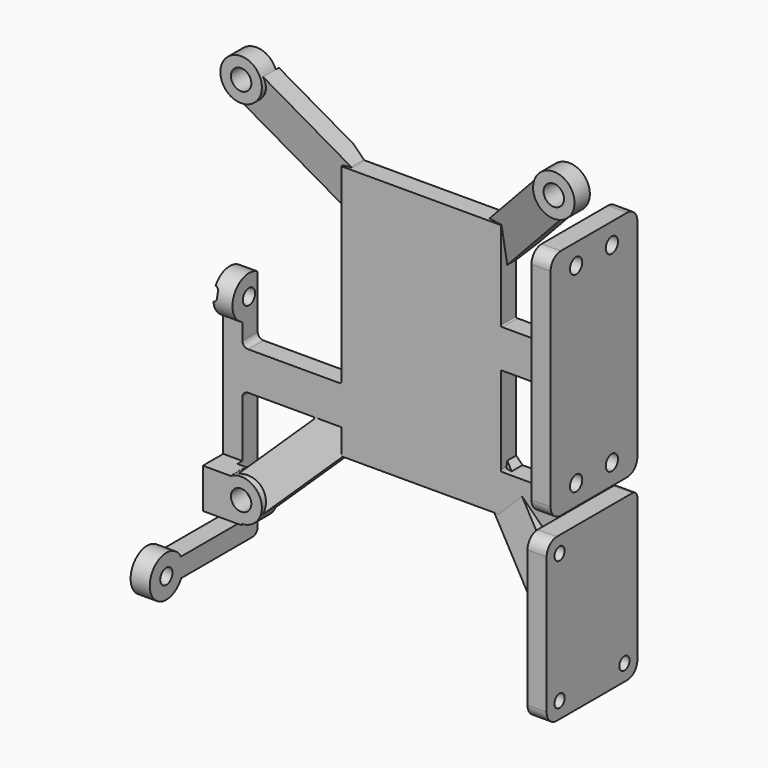
from build123d import *

# Parameters (mm, degrees)
BOX_W                     = 78
BOX_H                     = 10
BOX_DEPTH                 = 77
CYLINDER026_R             = 3.25
CYLINDER026_DEPTH         = 3
CYLINDER025_R             = 3.25
CYLINDER025_DEPTH         = 3
CYLINDER024_R             = 3.25
CYLINDER024_DEPTH         = 3
CYLINDER023_R             = 3.25
CYLINDER023_DEPTH         = 7
BOX014_W                  = 46
BOX014_H                  = 3
BOX014_DEPTH              = 47
CYLINDER027_R             = 1.2
CYLINDER027_DEPTH         = 6
CYLINDER028_R             = 1.2
CYLINDER028_DEPTH         = 6
CYLINDER029_R             = 1.1
CYLINDER029_DEPTH         = 6
FILLET009_R               = 0.5
CYLINDER022_R             = 1.6
CYLINDER022_DEPTH         = 6
CYLINDER021_R             = 1.6
CYLINDER021_DEPTH         = 6
CYLINDER020_R             = 1.6
CYLINDER020_DEPTH         = 6
CYLINDER019_R             = 1.6
CYLINDER019_DEPTH         = 6
BOX008_W                  = 30
BOX008_H                  = 3
BOX008_DEPTH              = 6
BOX009_W                  = 30
BOX009_H                  = 3
BOX009_DEPTH              = 6
BOX010_W                  = 27
BOX010_H                  = 3
BOX010_DEPTH              = 6
BOX011_W                  = 8
BOX011_H                  = 3
BOX011_DEPTH              = 6.25
BOX012_W                  = 3
BOX012_H                  = 3
BOX012_DEPTH              = 6.25
BOX013_W                  = 6
BOX013_H                  = 3
BOX013_DEPTH              = 6.25
BOX001_W                  = 25
BOX001_H                  = 3
BOX001_DEPTH              = 40
BOX002_W                  = 5.8
BOX002_H                  = 3
BOX002_DEPTH              = 25
BOX002_ROLL_ANGLE         = -15
BOX002_PITCH_ANGLE        = 45
CYLINDER017_R             = 3.25
CYLINDER017_DEPTH         = 3
CYLINDER018_R             = 3.25
CYLINDER018_DEPTH         = 3
CYLINDER003_R             = 3.25
CYLINDER003_DEPTH         = 3
CYLINDER002_R             = 3.25
CYLINDER002_DEPTH         = 3
CYLINDER001_R             = 3.25
CYLINDER001_DEPTH         = 3
CYLINDER_R                = 3.25
CYLINDER_DEPTH            = 3
CYLINDER015_R             = 1.2
CYLINDER015_DEPTH         = 10
CYLINDER016_R             = 1.2
CYLINDER016_DEPTH         = 10
CYLINDER012_R             = 1.2
CYLINDER012_DEPTH         = 10
CYLINDER014_R             = 1.2
CYLINDER014_DEPTH         = 10
BOX007_W                  = 36.5
BOX007_H                  = 3
BOX007_DEPTH              = 17
FILLET008_R               = 2
FILLET008_PITCH_ANGLE     = -90
FILLET008_PLACEMENT_ANGLE = -90
BOX006_W                  = 3
BOX006_H                  = 19
BOX006_DEPTH              = 35
BOX005_W                  = 3
BOX005_H                  = 19
BOX005_DEPTH              = 35
CYLINDER008_R             = 1
CYLINDER008_DEPTH         = 10
CYLINDER009_R             = 1
CYLINDER009_DEPTH         = 10
CYLINDER010_R             = 1
CYLINDER010_DEPTH         = 10
CYLINDER011_R             = 1
CYLINDER011_DEPTH         = 10
BOX004_W                  = 25.4
BOX004_H                  = 3
BOX004_DEPTH              = 17.78
CUT001_PITCH_ANGLE        = 90
CUT001_PLACEMENT_ANGLE    = 90
FILLET010_R               = 2
FILLET011_R               = 0.9
FILLET012_R               = 0.2
FILLET013_R               = 1
FILLET014_1_R             = 2
FILLET014_2_R             = 1


with BuildPart() as cube:
    # Box → Box (new body)
    with BuildSketch(Plane.XY):
        with Locations((39, 5)):
            Rectangle(BOX_W, BOX_H)
    extrude(amount=BOX_DEPTH)


with BuildPart() as cylinder026:
    # Cylinder026 → Cylinder026 (new body)
    with BuildSketch(Plane(origin=(63.5, -7, 3.5), x_dir=(1, 0, 0), z_dir=(0, 1, 0))):
        Circle(CYLINDER026_R)
    extrude(amount=CYLINDER026_DEPTH)


with BuildPart() as fusion030:
    # Cylinder025 → Cylinder025 (new body)
    with BuildSketch(Plane(origin=(14.5, -7, 3.5), x_dir=(1, 0, 0), z_dir=(0, 1, 0))):
        Circle(CYLINDER025_R)
    extrude(amount=CYLINDER025_DEPTH)

    # Fusion030: union Cylinder026
    add(cylinder026.part)


with BuildPart() as fusion030_1:
    # Fusion030 placement: moved
    add(fusion030.part.moved(Location((0, 0, 58))))


with BuildPart() as cylinder024:
    # Cylinder024 → Cylinder024 (new body)
    with BuildSketch(Plane(origin=(63.5, -7, 3.5), x_dir=(1, 0, 0), z_dir=(0, 1, 0))):
        Circle(CYLINDER024_R)
    extrude(amount=CYLINDER024_DEPTH)


with BuildPart() as m3cuts001:
    # Cylinder023 → Cylinder023 (new body)
    with BuildSketch(Plane(origin=(14.5, -7, 3.5), x_dir=(1, 0, 0), z_dir=(0, 1, 0))):
        Circle(CYLINDER023_R)
    extrude(amount=CYLINDER023_DEPTH)

    # Fusion031: union Cylinder024
    add(cylinder024.part)

    # Fusion032: union Fusion030
    add(fusion030_1.part)


with BuildPart() as m3cuts001_1:
    # Fusion032 placement: moved
    add(m3cuts001.part.moved(Location((0, 3.05, 0))))


with BuildPart() as basecut:
    # Box014 → Box014 (new body)
    with BuildSketch(Plane(origin=(16, 0, 9), x_dir=(1, 0, 0), z_dir=(0, 0, 1))):
        with Locations((23, 1.5)):
            Rectangle(BOX014_W, BOX014_H)
    extrude(amount=BOX014_DEPTH)


with BuildPart() as cylinder027:
    # Cylinder027 → Cylinder027 (new body)
    with BuildSketch(Plane(origin=(11.5, -1.7, 28.45), x_dir=(0, 1, 0), z_dir=(-1, 0, 0))):
        Circle(CYLINDER027_R)
    extrude(amount=CYLINDER027_DEPTH)


with BuildPart() as obj1:
    # Cylinder028 → Cylinder028 (new body)
    with BuildSketch(Plane(origin=(11.5, -17.9, -3.55), x_dir=(0, 1, 0), z_dir=(-1, 0, 0))):
        Circle(CYLINDER028_R)
    extrude(amount=CYLINDER028_DEPTH)

    # Fusion033: union Cylinder027
    add(cylinder027.part)


with BuildPart() as obj2:
    # Cylinder029 → Cylinder029 (new body)
    with BuildSketch(Plane(origin=(9.09, -4.25, 29), x_dir=(0, 1, 0), z_dir=(-1, 0, 0))):
        Circle(CYLINDER029_R)
    extrude(amount=CYLINDER029_DEPTH)

    # Fillet009
    fillet009_edges = [obj2.edges().sort_by_distance(p)[0] for p in [
        (9.09, -5.35, 29),
    ]]
    fillet(fillet009_edges, radius=FILLET009_R)


with BuildPart() as cylinder022:
    # Cylinder022 → Cylinder022 (new body)
    with BuildSketch(Plane(origin=(63.5, -7, 3.5), x_dir=(1, 0, 0), z_dir=(0, 1, 0))):
        Circle(CYLINDER022_R)
    extrude(amount=CYLINDER022_DEPTH)


with BuildPart() as fusion027:
    # Cylinder021 → Cylinder021 (new body)
    with BuildSketch(Plane(origin=(14.5, -7, 3.5), x_dir=(1, 0, 0), z_dir=(0, 1, 0))):
        Circle(CYLINDER021_R)
    extrude(amount=CYLINDER021_DEPTH)

    # Fusion027: union Cylinder022
    add(cylinder022.part)


with BuildPart() as fusion027_1:
    # Fusion027 placement: moved
    add(fusion027.part.moved(Location((0, 0, 58))))


with BuildPart() as cylinder020:
    # Cylinder020 → Cylinder020 (new body)
    with BuildSketch(Plane(origin=(63.5, -7, 3.5), x_dir=(1, 0, 0), z_dir=(0, 1, 0))):
        Circle(CYLINDER020_R)
    extrude(amount=CYLINDER020_DEPTH)


with BuildPart() as basecuts:
    # Cylinder019 → Cylinder019 (new body)
    with BuildSketch(Plane(origin=(14.5, -7, 3.5), x_dir=(1, 0, 0), z_dir=(0, 1, 0))):
        Circle(CYLINDER019_R)
    extrude(amount=CYLINDER019_DEPTH)

    # Fusion028: union Cylinder020
    add(cylinder020.part)

    # Fusion029: union Fusion027
    add(fusion027_1.part)

    # Fusion034: union m3Cuts001, baseCut, obj1, obj2
    add(m3cuts001_1.part)
    add(basecut.part)
    add(obj1.part)
    add(obj2.part)


with BuildPart() as cube008:
    # Box008 → Box008 (new body)
    with BuildSketch(Plane(origin=(11, -3, 16), x_dir=(1, 0, 0), z_dir=(0, 0, 1))):
        with Locations((15, 1.5)):
            Rectangle(BOX008_W, BOX008_H)
    extrude(amount=BOX008_DEPTH)


with BuildPart() as cube009:
    # Box009 → Box009 (new body)
    with BuildSketch(Plane(origin=(41, -3, 32), x_dir=(1, 0, 0), z_dir=(0, 0, 1))):
        with Locations((15, 1.5)):
            Rectangle(BOX009_W, BOX009_H)
    extrude(amount=BOX009_DEPTH)


with BuildPart() as cube010:
    # Box010 → Box010 (new body)
    with BuildSketch(Plane(origin=(44, -3, 12), x_dir=(1, 0, 0), z_dir=(0, 0, 1))):
        with Locations((13.5, 1.5)):
            Rectangle(BOX010_W, BOX010_H)
    extrude(amount=BOX010_DEPTH)


with BuildPart() as cube011:
    # Box011 → Box011 (new body)
    with BuildSketch(Plane(origin=(63, -7, 0.3), x_dir=(1, 0, 0), z_dir=(0, 0, 1))):
        with Locations((4, 1.5)):
            Rectangle(BOX011_W, BOX011_H)
    extrude(amount=BOX011_DEPTH)


with BuildPart() as cube012:
    # Box012 → Box012 (new body)
    with BuildSketch(Plane(origin=(11.5, -4, 6.3), x_dir=(-1, 0, 0), z_dir=(0, 0, -1))):
        with Locations((1.5, 1.5)):
            Rectangle(BOX012_W, BOX012_H)
    extrude(amount=BOX012_DEPTH)


with BuildPart() as obj3:
    # Box013 → Box013 (new body)
    with BuildSketch(Plane(origin=(14.5, -7, 6.3), x_dir=(-1, 0, 0), z_dir=(0, 0, -1))):
        with Locations((3, 1.5)):
            Rectangle(BOX013_W, BOX013_H)
    extrude(amount=BOX013_DEPTH)

    # Fusion025: union Cube008, Cube009, Cube010, Cube011, Cube012
    add(cube008.part)
    add(cube009.part)
    add(cube010.part)
    add(cube011.part)
    add(cube012.part)


with BuildPart() as cube001:
    # Box001 → Box001 (new body)
    with BuildSketch(Plane(origin=(27, -3, 12), x_dir=(1, 0, 0), z_dir=(0, 0, 1))):
        with Locations((12.5, 1.5)):
            Rectangle(BOX001_W, BOX001_H)
    extrude(amount=BOX001_DEPTH)


with BuildPart() as cube002:
    # Box002 → Box002 (new body)
    with BuildSketch(Plane.XY):
        with Locations((2.9, 1.5)):
            Rectangle(BOX002_W, BOX002_H)
    extrude(amount=BOX002_DEPTH)


with BuildPart() as cube002_1:
    # Box002 roll: moved
    add(cube002.part.rotate(Axis((0, 0, 0), (1, 0, 0)), BOX002_ROLL_ANGLE))


with BuildPart() as cube002_2:
    # Box002 pitch: moved
    add(cube002_1.part.rotate(Axis((0, 0, 0), (0, 1, 0)), BOX002_PITCH_ANGLE))


with BuildPart() as cube002_3:
    # Box002 placement: moved
    add(cube002_2.part.moved(Location((12.12, -7, 5.12))))


with BuildPart() as fusion009:
    # Part__Mirroring: instance of Cube002
    add(cube002_3.part.mirror(Plane(origin=(0, 0, 0), x_dir=(0, 1, 0), z_dir=(0, 0, 1))))


with BuildPart() as fusion009_1:
    # Part__Mirroring placement: moved
    add(fusion009.part.moved(Location((0, 0, 65))))

    # Fusion009: union Cube002
    add(cube002_3.part)


with BuildPart() as part_mirroring001:
    # Part__Mirroring001: instance of Fusion009
    add(fusion009_1.part.mirror(Plane(origin=(0, 0, 0), x_dir=(0, -1, 0), z_dir=(1, 0, 0))))


with BuildPart() as part_mirroring001_1:
    # Part__Mirroring001 placement: moved
    add(part_mirroring001.part.moved(Location((78, 0, 0))))


with BuildPart() as base:
    # Fusion010 base: copy of Fusion009
    add(fusion009_1.part)

    # Fusion010: union Part__Mirroring001
    add(part_mirroring001_1.part)

    # Fusion023: union Cube001
    add(cube001.part)


with BuildPart() as cylinder017:
    # Cylinder017 → Cylinder017 (new body)
    with BuildSketch(Plane(origin=(11.5, -1.7, 28.45), x_dir=(0, 1, 0), z_dir=(-1, 0, 0))):
        Circle(CYLINDER017_R)
    extrude(amount=CYLINDER017_DEPTH)


with BuildPart() as obj4:
    # Cylinder018 → Cylinder018 (new body)
    with BuildSketch(Plane(origin=(11.5, -17.9, -3.55), x_dir=(0, 1, 0), z_dir=(-1, 0, 0))):
        Circle(CYLINDER018_R)
    extrude(amount=CYLINDER018_DEPTH)

    # Fusion022: union Cylinder017
    add(cylinder017.part)


with BuildPart() as cylinder003:
    # Cylinder003 → Cylinder003 (new body)
    with BuildSketch(Plane(origin=(63.5, -7, 3.5), x_dir=(1, 0, 0), z_dir=(0, 1, 0))):
        Circle(CYLINDER003_R)
    extrude(amount=CYLINDER003_DEPTH)


with BuildPart() as fusion007:
    # Cylinder002 → Cylinder002 (new body)
    with BuildSketch(Plane(origin=(14.5, -7, 3.5), x_dir=(1, 0, 0), z_dir=(0, 1, 0))):
        Circle(CYLINDER002_R)
    extrude(amount=CYLINDER002_DEPTH)

    # Fusion007: union Cylinder003
    add(cylinder003.part)


with BuildPart() as fusion007_1:
    # Fusion007 placement: moved
    add(fusion007.part.moved(Location((0, 0, 58))))


with BuildPart() as cylinder001:
    # Cylinder001 → Cylinder001 (new body)
    with BuildSketch(Plane(origin=(63.5, -7, 3.5), x_dir=(1, 0, 0), z_dir=(0, 1, 0))):
        Circle(CYLINDER001_R)
    extrude(amount=CYLINDER001_DEPTH)


with BuildPart() as m3legs:
    # Cylinder → Cylinder (new body)
    with BuildSketch(Plane(origin=(14.5, -7, 3.5), x_dir=(1, 0, 0), z_dir=(0, 1, 0))):
        Circle(CYLINDER_R)
    extrude(amount=CYLINDER_DEPTH)

    # Fusion020: union Cylinder001
    add(cylinder001.part)

    # Fusion021: union Fusion007
    add(fusion007_1.part)


with BuildPart() as m2s002:
    # Cylinder015 → Cylinder015 (new body)
    with BuildSketch(Plane.XZ):
        Circle(CYLINDER015_R)
    extrude(amount=CYLINDER015_DEPTH)


with BuildPart() as fusion018:
    # Cylinder016 → Cylinder016 (new body)
    with BuildSketch(Plane(origin=(30, 0, 0), x_dir=(1, 0, 0), z_dir=(0, -1, 0))):
        Circle(CYLINDER016_R)
    extrude(amount=CYLINDER016_DEPTH)

    # Fusion018: union m2s002
    add(m2s002.part)


with BuildPart() as fusion018_1:
    # Fusion018 placement: moved
    add(fusion018.part.moved(Location((3.25, 0, 7))))


with BuildPart() as m2s:
    # Cylinder012 → Cylinder012 (new body)
    with BuildSketch(Plane.XZ):
        Circle(CYLINDER012_R)
    extrude(amount=CYLINDER012_DEPTH)


with BuildPart() as fusion019:
    # Cylinder014 → Cylinder014 (new body)
    with BuildSketch(Plane(origin=(30, 0, 0), x_dir=(1, 0, 0), z_dir=(0, -1, 0))):
        Circle(CYLINDER014_R)
    extrude(amount=CYLINDER014_DEPTH)

    # Fusion017: union m2s
    add(m2s.part)


with BuildPart() as fusion019_1:
    # Fusion017 placement: moved
    add(fusion019.part.moved(Location((3.25, 0, 0))))

    # Fusion019: union Fusion018
    add(fusion018_1.part)


with BuildPart() as fusion019_2:
    # Fusion019 placement: moved
    add(fusion019_1.part.moved(Location((0, 3, 5))))


with BuildPart() as convertersupport:
    # Box007 → Box007 (new body)
    with BuildSketch(Plane.XY):
        with Locations((18.25, 1.5)):
            Rectangle(BOX007_W, BOX007_H)
    extrude(amount=BOX007_DEPTH)

    # Cut003: cut Fusion019
    add(fusion019_2.part, mode=Mode.SUBTRACT)

    # Fillet008
    fillet008_edges = [convertersupport.edges().sort_by_distance(p)[0] for p in [
        (0, 1.5, 17),
        (0, 1.5, 0),
        (36.5, 1.5, 17),
        (36.5, 1.5, 0),
    ]]
    fillet(fillet008_edges, radius=FILLET008_R)


with BuildPart() as convertersupport_1:
    # Fillet008 pitch: moved
    add(convertersupport.part.rotate(Axis((0, 0, 0), (0, 1, 0)), FILLET008_PITCH_ANGLE))


with BuildPart() as convertersupport_2:
    # Fillet008 placement: moved
    add(convertersupport_1.part.moved(Location((68, -17, 23))).rotate(Axis((68, -17, 23), (0, 0, 1)), FILLET008_PLACEMENT_ANGLE))


with BuildPart() as cube006:
    # Box006 → Box006 (new body)
    with BuildSketch(Plane(origin=(8, -22, -2), x_dir=(1, 0, 0), z_dir=(0, 0, 1))):
        with Locations((1.5, 9.5)):
            Rectangle(BOX006_W, BOX006_H)
    extrude(amount=BOX006_DEPTH)


with BuildPart() as cut002:
    # Box005 → Box005 (new body)
    with BuildSketch(Plane(origin=(8, -19, -5), x_dir=(1, 0, 0), z_dir=(0, 0, 1))):
        with Locations((1.5, 9.5)):
            Rectangle(BOX005_W, BOX005_H)
    extrude(amount=BOX005_DEPTH)

    # Cut002: cut Cube006
    add(cube006.part, mode=Mode.SUBTRACT)


with BuildPart() as cut002_1:
    # Cut002 placement: moved
    add(cut002.part.moved(Location((0.5, 0, 0))))


with BuildPart() as cylinder008:
    # Cylinder008 → Cylinder008 (new body)
    with BuildSketch(Plane(origin=(2.54, 0, 2.54), x_dir=(1, 0, 0), z_dir=(0, -1, 0))):
        Circle(CYLINDER008_R)
    extrude(amount=CYLINDER008_DEPTH)


with BuildPart() as fusion014:
    # Cylinder009 → Cylinder009 (new body)
    with BuildSketch(Plane(origin=(2.54, -27.63, 15.24), x_dir=(1, 0, 0), z_dir=(0, -1, 0))):
        Circle(CYLINDER009_R)
    extrude(amount=CYLINDER009_DEPTH)

    # Fusion014: union Cylinder008
    add(cylinder008.part)


with BuildPart() as cylinder010:
    # Cylinder010 → Cylinder010 (new body)
    with BuildSketch(Plane(origin=(2.54, 0, 2.54), x_dir=(1, 0, 0), z_dir=(0, -1, 0))):
        Circle(CYLINDER010_R)
    extrude(amount=CYLINDER010_DEPTH)


with BuildPart() as fusion016:
    # Cylinder011 → Cylinder011 (new body)
    with BuildSketch(Plane(origin=(2.54, 0, 15.24), x_dir=(1, 0, 0), z_dir=(0, -1, 0))):
        Circle(CYLINDER011_R)
    extrude(amount=CYLINDER011_DEPTH)

    # Fusion015: union Cylinder010
    add(cylinder010.part)


with BuildPart() as fusion016_1:
    # Fusion015 placement: moved
    add(fusion016.part.moved(Location((20.32, 0, 0))))

    # Fusion016: union Fusion014
    add(fusion014.part)


with BuildPart() as fusion016_2:
    # Fusion016 placement: moved
    add(fusion016_1.part.moved(Location((0, 3, 0))))


with BuildPart() as c4support:
    # Box004 → Box004 (new body)
    with BuildSketch(Plane.XY):
        with Locations((12.7, 1.5)):
            Rectangle(BOX004_W, BOX004_H)
    extrude(amount=BOX004_DEPTH)

    # Cut001: cut Fusion016
    add(fusion016_2.part, mode=Mode.SUBTRACT)


with BuildPart() as c4support_1:
    # Cut001 pitch: moved
    add(c4support.part.rotate(Axis((0, 0, 0), (0, 1, 0)), CUT001_PITCH_ANGLE))


with BuildPart() as c4support_2:
    # Cut001 placement: moved
    add(c4support_1.part.moved(Location((71, -17.7, 20.4))).rotate(Axis((71, -17.7, 20.4), (0, 0, 1)), CUT001_PLACEMENT_ANGLE))

    # Fillet010
    fillet010_edges = [c4support_2.edges().sort_by_distance(p)[0] for p in [
        (69.5, -17.7, 20.4),
    ]]
    fillet(fillet010_edges, radius=FILLET010_R)


with BuildPart() as c4support_3:
    # Fillet010 placement: moved
    add(c4support_2.part.moved(Location((0, -0.08, 0))))

    # Fusion035: union obj3, base, obj4, m3Legs, converterSupport, Cut002
    add(obj3.part)
    add(base.part)
    add(obj4.part)
    add(m3legs.part)
    add(convertersupport_2.part)
    add(cut002_1.part)

    # Cut004: cut baseCuts
    add(basecuts.part, mode=Mode.SUBTRACT)

    # Fillet011
    fillet011_edges = [c4support_3.edges().sort_by_distance(p)[0] for p in [
        (68, -1.5, 12),
        (68, -3, 15),
        (68, -1.5, 18),
        (68, -5.5, 6.55),
        (68, -4, 3.425),
        (68, -5.5, 0.3),
        (68, -7, 3.425),
        (68, -1.5, 32),
        (68, -1.5, 38),
        (68, -3, 35),
        (11.5, -1.5, 22),
        (11.5, -1.5, 16),
        (10, -3, 0.05),
    ]]
    fillet(fillet011_edges, radius=FILLET011_R)

    # Fillet012
    fillet012_edges = [c4support_3.edges().sort_by_distance(p)[0] for p in [
        (59, -2.143541, 12),
        (52, -2.464909, 18),
        (52, -1.5, 32),
        (50.797561, -1.419403, 12),
        (27.202439, -1.419403, 12),
        (52, -0.870175, 46),
        (52, -1.5, 38),
        (28.202439, -1.229934, 52),
        (49.797561, -1.229934, 52),
        (27, -0.680706, 45),
        (27, -1.5, 22),
        (17.531879, -5.251671, 2.32944),
        (23, -1.438581, 16),
        (13.631923, -5.213538, 6.631923),
        (12.85, -5.5, 6.3),
        (14.5, -5.5, 0.25),
        (10, -3, 25.471326),
        (10, 0, 25.680072),
    ]]
    fillet(fillet012_edges, radius=FILLET012_R)

    # Cut005: cut Cube
    add(cube.part, mode=Mode.SUBTRACT)

    # Fillet013
    fillet013_edges = [c4support_3.edges().sort_by_distance(p)[0] for p in [
        (10, 0, -5),
        (10, -3, -2),
    ]]
    fillet(fillet013_edges, radius=FILLET013_R)

    # Fillet014 1
    fillet014_1_edges = [c4support_3.edges().sort_by_distance(p)[0] for p in [
        (69.5, 0, -5),
        (69.5, -17.78, -5),
    ]]
    fillet(fillet014_1_edges, radius=FILLET014_1_R)

    # Fillet014 2
    fillet014_2_edges = [c4support_3.edges().sort_by_distance(p)[0] for p in [
        (69.5, 0, 20.4),
    ]]
    fillet(fillet014_2_edges, radius=FILLET014_2_R)


solid = c4support_3.part
